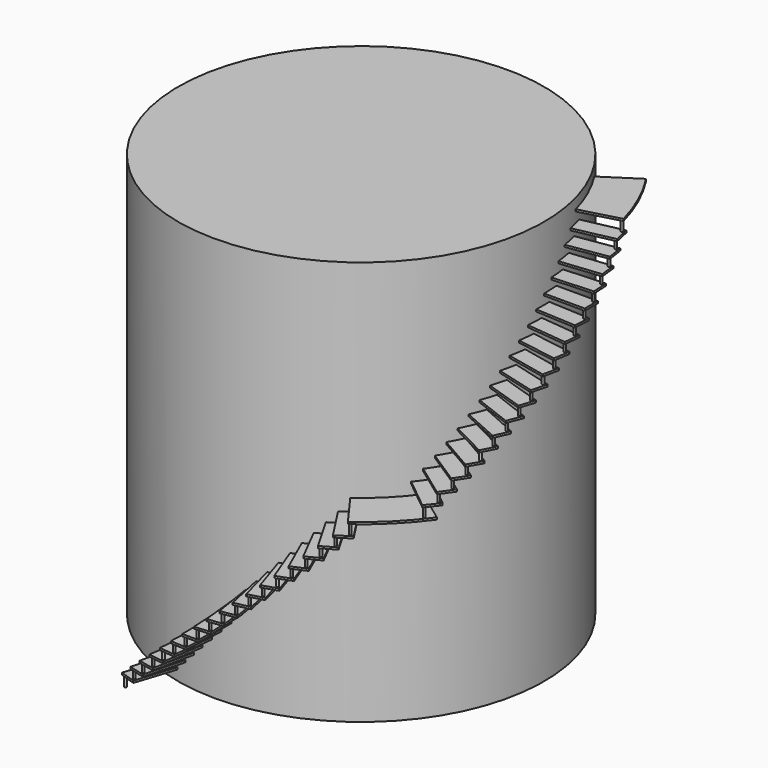
from build123d import *

# Parameters (mm, degrees)
CYLINDER_R                  = 25
CYLINDER_DEPTH              = 250
BOX_W                       = 5500
BOX_H                       = 400
BOX_DEPTH                   = 50
CLONE_PLACEMENT_ANGLE       = 3
CLONE001_PLACEMENT_ANGLE    = 3
CLONE002_PLACEMENT_ANGLE    = 3
CLONE003_PLACEMENT_ANGLE    = 3
CLONE004_PLACEMENT_ANGLE    = 3
CLONE005_PLACEMENT_ANGLE    = 18
CLONE006_PLACEMENT_ANGLE    = 18
CYLINDER001_W               = 5500
CYLINDER001_H               = 50
CYLINDER001_ANGLE           = 18
CYLINDER001_PLACEMENT_ANGLE = 54
CYLINDER002_R               = 25
CYLINDER002_DEPTH           = 250
CYLINDER002_PLACEMENT_ANGLE = 57
CLONE007_PLACEMENT_ANGLE    = 69
CYLINDER003_R               = 4500
CYLINDER003_DEPTH           = 9950
FUSION003_PLACEMENT_ANGLE   = 252


with BuildPart() as cylinder:
    # Cylinder → Cylinder (new body)
    with BuildSketch(Plane(origin=(5450, 50, 0), x_dir=(1, 0, 0), z_dir=(0, 0, 1))):
        Circle(CYLINDER_R)
    extrude(amount=CYLINDER_DEPTH)


with BuildPart() as fusion:
    # Box → Box (new body)
    with BuildSketch(Plane.XY.offset(250)):
        with Locations((2750, 200)):
            Rectangle(BOX_W, BOX_H)
    extrude(amount=BOX_DEPTH)

    # Fusion: union Cylinder
    add(cylinder.part)


with BuildPart() as fusion001:
    # Clone base: copy of Fusion
    add(fusion.part)


with BuildPart() as fusion001_1:
    # Clone placement: moved
    add(fusion001.part.moved(Location((0, 0, 250))).rotate(Axis((0, 0, 250), (0, 0, 1)), CLONE_PLACEMENT_ANGLE))


with BuildPart() as fusion002:
    # Clone001 base: copy of Fusion001
    add(fusion001_1.part)


with BuildPart() as fusion002_1:
    # Clone001 placement: moved
    add(fusion002.part.moved(Location((0, 0, 250))).rotate(Axis((0, 0, 250), (0, 0, 1)), CLONE001_PLACEMENT_ANGLE))


with BuildPart() as fusion003:
    # Clone002 base: copy of Fusion002
    add(fusion002_1.part)


with BuildPart() as fusion003_1:
    # Clone002 placement: moved
    add(fusion003.part.moved(Location((0, 0, 250))).rotate(Axis((0, 0, 250), (0, 0, 1)), CLONE002_PLACEMENT_ANGLE))


with BuildPart() as fusion004:
    # Clone003 base: copy of Fusion003
    add(fusion003_1.part)


with BuildPart() as fusion004_1:
    # Clone003 placement: moved
    add(fusion004.part.moved(Location((0, 0, 250))).rotate(Axis((0, 0, 250), (0, 0, 1)), CLONE003_PLACEMENT_ANGLE))


with BuildPart() as fusion005:
    # Clone004 base: copy of Fusion004
    add(fusion004_1.part)


with BuildPart() as fusion005_1:
    # Clone004 placement: moved
    add(fusion005.part.moved(Location((0, 0, 250))).rotate(Axis((0, 0, 250), (0, 0, 1)), CLONE004_PLACEMENT_ANGLE))


with BuildPart() as fusion006:
    # Fusion001 base: copy of Fusion
    add(fusion.part)

    # Fusion001: union Fusion001, Fusion002, Fusion003, Fusion004, Fusion005
    add(fusion001_1.part)
    add(fusion002_1.part)
    add(fusion003_1.part)
    add(fusion004_1.part)
    add(fusion005_1.part)


with BuildPart() as fusion007:
    # Clone005 base: copy of Fusion006
    add(fusion006.part)


with BuildPart() as fusion007_1:
    # Clone005 placement: moved
    add(fusion007.part.moved(Location((0, 0, 1500))).rotate(Axis((0, 0, 1500), (0, 0, 1)), CLONE005_PLACEMENT_ANGLE))


with BuildPart() as fusion008:
    # Clone006 base: copy of Fusion007
    add(fusion007_1.part)


with BuildPart() as fusion008_1:
    # Clone006 placement: moved
    add(fusion008.part.moved(Location((0, 0, 1500))).rotate(Axis((0, 0, 1500), (0, 0, 1)), CLONE006_PLACEMENT_ANGLE))


with BuildPart() as cylinder001:
    # Cylinder001 → Cylinder001 (revolve)
    with BuildSketch(Plane.XZ):
        with Locations((2750, 25)):
            Rectangle(CYLINDER001_W, CYLINDER001_H)
    revolve(axis=Axis((0, 0, 0), (0, 0, 1)), revolution_arc=CYLINDER001_ANGLE)


with BuildPart() as cylinder001_1:
    # Cylinder001 placement: moved
    add(cylinder001.part.moved(Location((0, 0, 4800))).rotate(Axis((0, 0, 4800), (0, 0, 1)), CYLINDER001_PLACEMENT_ANGLE))


with BuildPart() as cylinder002:
    # Cylinder002 → Cylinder002 (new body)
    with BuildSketch(Plane.XY):
        Circle(CYLINDER002_R)
    extrude(amount=CYLINDER002_DEPTH)


with BuildPart() as cylinder002_1:
    # Cylinder002 placement: moved
    add(cylinder002.part.moved(Location((3166.887418, 4435.732664, 4550))).rotate(Axis((3166.887418, 4435.732664, 4550), (0, 0, 1)), CYLINDER002_PLACEMENT_ANGLE))


with BuildPart() as fusion009:
    # Fusion002 base: copy of Fusion006
    add(fusion006.part)

    # Fusion002: union Fusion007, Fusion008, Cylinder001, Cylinder002
    add(fusion007_1.part)
    add(fusion008_1.part)
    add(cylinder001_1.part)
    add(cylinder002_1.part)


with BuildPart() as fusion010:
    # Clone007 base: copy of Fusion009
    add(fusion009.part)


with BuildPart() as fusion010_1:
    # Clone007 placement: moved
    add(fusion010.part.moved(Location((0, 0, 4850))).rotate(Axis((0, 0, 4850), (0, 0, 1)), CLONE007_PLACEMENT_ANGLE))


with BuildPart() as cylinder003:
    # Cylinder003 → Cylinder003 (new body)
    with BuildSketch(Plane.XY):
        Circle(CYLINDER003_R)
    extrude(amount=CYLINDER003_DEPTH)


with BuildPart() as fusion011:
    # Fusion003 base: copy of Fusion009
    add(fusion009.part)

    # Fusion003: union Fusion010, Cylinder003
    add(fusion010_1.part)
    add(cylinder003.part)


with BuildPart() as fusion011_1:
    # Fusion003 placement: moved
    add(fusion011.part.rotate(Axis((0, 0, 0), (0, 0, 1)), FUSION003_PLACEMENT_ANGLE))


solid = fusion011_1.part
